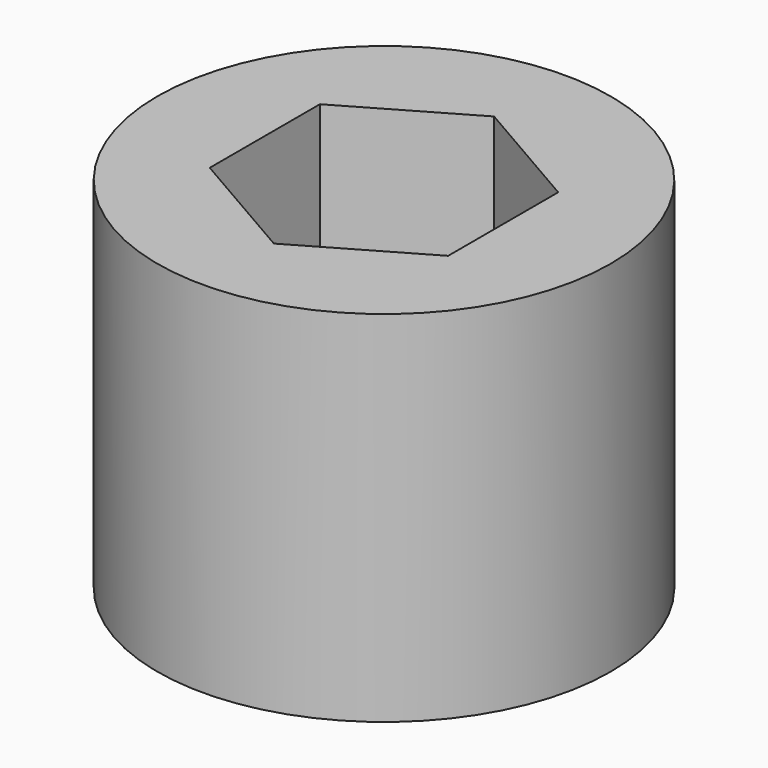
from build123d import *

# Parameters (mm, degrees)
F0_R     = 59.319619
F1_DEPTH = 93.98
F2_DEPTH = 25.4


with BuildPart() as f1:
    # F0 (on Top) → F1 (new body)
    with BuildSketch(Plane.XY):
        Circle(F0_R)
        Polygon((0, -36.013357), (-31.188482, -18.006679), (-31.188482, 18.006679), (0, 36.013357), (31.188482, 18.006679), (31.188482, -18.006679), align=None, mode=Mode.SUBTRACT)
    extrude(amount=F1_DEPTH)

    # F0 (on Top) → F2 (join)
    with BuildSketch(Plane.XY):
        Circle(F0_R)
        Polygon((0, -36.013357), (-31.188482, -18.006679), (-31.188482, 18.006679), (0, 36.013357), (31.188482, 18.006679), (31.188482, -18.006679), align=None, mode=Mode.SUBTRACT)
    extrude(amount=F2_DEPTH)


solid = f1.part
